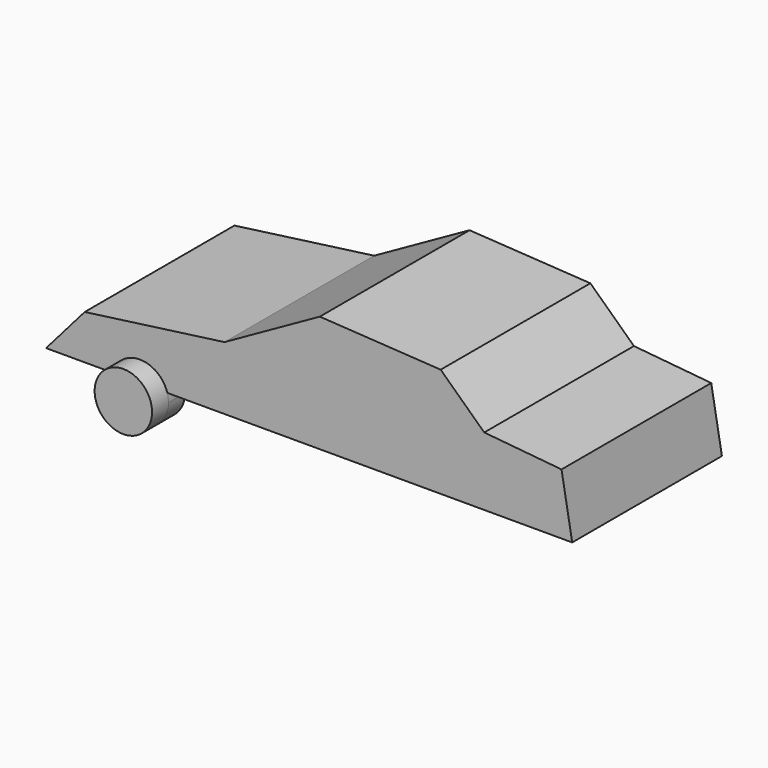
from build123d import *

# Parameters (mm, degrees)
F1_DEPTH      = 46.228
F2_R          = 7.092967
F3_DEPTH      = 5.08
F3_DEPTH_BACK = 5.08


with BuildPart() as f1:
    # F0 (on Front) → F1 (new body)
    with BuildSketch(Plane.XZ):
        Polygon((-53.001549, 10.965838), (-62.545888, 0), (67.419596, 0), (64.779676, 15.027259), (45.690991, 16.854899), (34.928225, 27.008452), (5.076777, 28.836092), (-18.479466, 15.636472), align=None)
    extrude(amount=F1_DEPTH)

    # F2 (on face) → F3 (join, two sides)
    with BuildSketch(Plane.XZ.offset(46.228)) as f3_sk:
        with Locations((-39.395787, -2.030711)):
            Circle(F2_R)
    extrude(amount=F3_DEPTH)
    extrude(f3_sk.sketch, amount=-F3_DEPTH_BACK)


solid = f1.part
